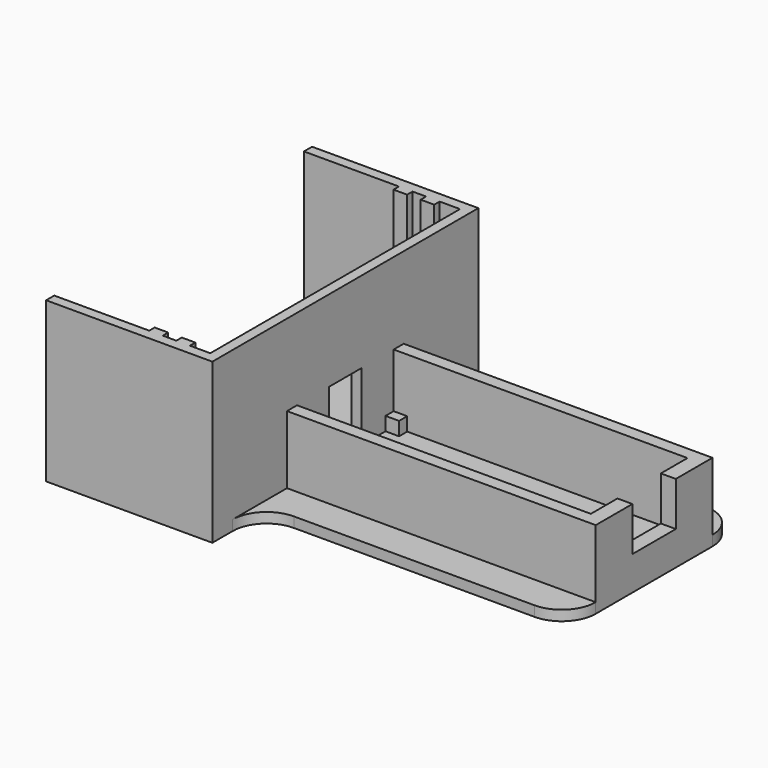
from build123d import *

# Parameters (mm, degrees)
F0_W      = 23
F0_H      = 49
F1_DEPTH  = 1.5
F2_W      = 23
F2_H      = 1.5
F3_DEPTH  = 22
F4_W      = 2
F4_H      = 1
F5_DEPTH  = 22
F6_W      = 47
F6_H      = 21.5
F7_DEPTH  = 1.5
F8_W      = 1.5
F8_H      = 49
F9_DEPTH  = 23.5
F11_DEPTH = 10
F12_W     = 6
F12_H     = 10
F13_DEPTH = 1.5
F14_W     = 2
F14_H     = 1.5
F15_DEPTH = 2
F16_W     = 8
F16_H     = 6.5
F17_DEPTH = 2.2
F18_W     = 45.5
F18_H     = 1.5
F19_DEPTH = 5
F20_W     = 45.5
F20_H     = 1.5
F21_DEPTH = 5
F22_R     = 5


with BuildPart() as f1:
    # F0 (on Top) → F1 (new body)
    with BuildSketch(Plane.XY):
        with Locations((-11.5, 0)):
            Rectangle(F0_W, F0_H)
    extrude(amount=F1_DEPTH)

    # F2 (on face) → F3 (join)
    with BuildSketch(Plane.XY.offset(1.5)):
        with Locations((-11.5, 23.75)):
            Rectangle(F2_W, F2_H)
        with Locations((-11.5, -23.75)):
            Rectangle(F2_W, F2_H)
    extrude(amount=F3_DEPTH)

    # F4 (on face) → F5 (join)
    with BuildSketch(Plane.XY.offset(1.5)):
        with Locations((-4, 22.5)):
            Rectangle(F4_W, F4_H)
        with Locations((-8, -22.5)):
            Rectangle(F4_W, F4_H)
        with Locations((-4, -22.5)):
            Rectangle(F4_W, F4_H)
        with Locations((-8, 22.5)):
            Rectangle(F4_W, F4_H)
    extrude(amount=F5_DEPTH)

    # F6 (on Top) → F7 (join)
    with BuildSketch(Plane.XY):
        with Locations((23.5, 0)):
            Rectangle(F6_W, F6_H)
    extrude(amount=F7_DEPTH)

    # F8 (on Top) → F9 (join)
    with BuildSketch(Plane.XY):
        with Locations((0.75, 0)):
            Rectangle(F8_W, F8_H)
    extrude(amount=F9_DEPTH)

    # F10 (on face) → F11 (join)
    with BuildSketch(Plane.XY.offset(1.5)):
        Polygon((1.5, 10.75), (1.5, 8.9), (44.8, 8.9), (44.8, -8.9), (1.5, -8.9), (1.5, -10.75), (47, -10.75), (47, 10.75), align=None)
    extrude(amount=F11_DEPTH)

    # F12 (on face) → F13 (cut, through all)
    with BuildSketch(Plane(origin=(0, 0, 0), x_dir=(0, -1, 0), z_dir=(-1, 0, 0))):
        with Locations((0, 6.5)):
            Rectangle(F12_W, F12_H)
    extrude(amount=-F13_DEPTH, mode=Mode.SUBTRACT)

    # F14 (on face) → F15 (join)
    with BuildSketch(Plane.XY.offset(1.5)):
        with Locations((2.5, 8.15)):
            Rectangle(F14_W, F14_H)
        with Locations((2.5, -8.15)):
            Rectangle(F14_W, F14_H)
        with Locations((43.8, 8.15)):
            Rectangle(F14_W, F14_H)
        with Locations((43.8, -8.15)):
            Rectangle(F14_W, F14_H)
    extrude(amount=F15_DEPTH)

    # F16 (on face) → F17 (cut, through all)
    with BuildSketch(Plane.YZ.offset(47)):
        with Locations((0, 8.25)):
            Rectangle(F16_W, F16_H)
    extrude(amount=-F17_DEPTH, mode=Mode.SUBTRACT)

    # F18 (on face) → F19 (join)
    with BuildSketch(Plane(origin=(0, 10.75, 0), x_dir=(-1, 0, 0), z_dir=(0, 1, 0))):
        with Locations((-24.25, 0.75)):
            Rectangle(F18_W, F18_H)
    extrude(amount=F19_DEPTH)

    # F20 (on face) → F21 (join)
    with BuildSketch(Plane.XZ.offset(10.75)):
        with Locations((24.25, 0.75)):
            Rectangle(F20_W, F20_H)
    extrude(amount=F21_DEPTH)

    # F22
    f22_edges = [f1.edges().sort_by_distance(p)[0] for p in [
        (47, 15.75, 0.75),
        (1.5, 15.75, 0.75),
        (47, -15.75, 0.75),
        (1.5, -15.75, 0.75),
    ]]
    fillet(f22_edges, radius=F22_R)


solid = f1.part
